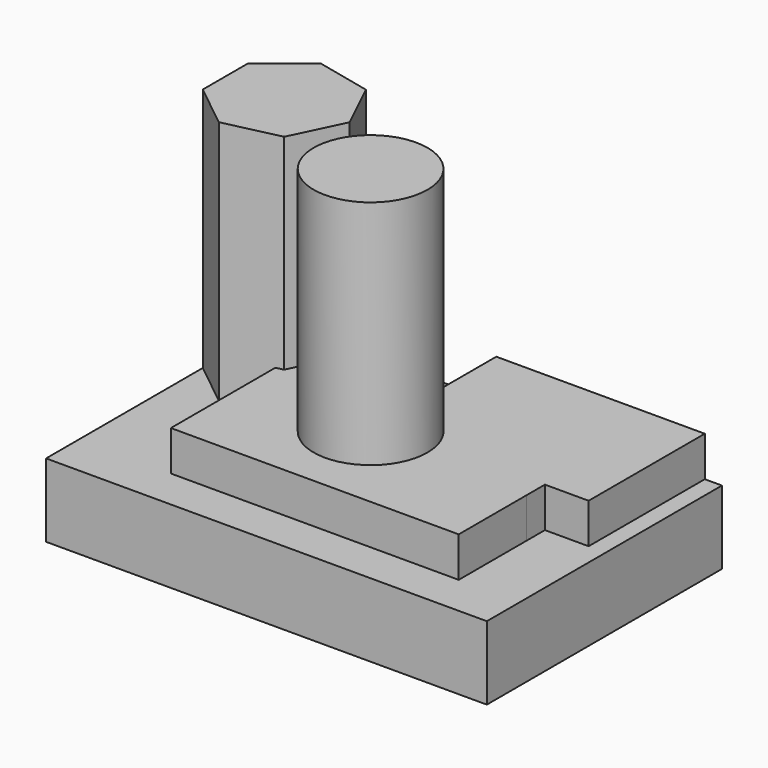
from build123d import *

# Parameters (mm, degrees)
F0_W     = 76.2
F0_H     = 50.8
F1_DEPTH = 12.7
F2_W     = 49.7612692416
F2_H     = 14.612480998
F2_W_2   = 28.4890644252
F2_H_2   = 11.0769122839
F3_DEPTH = 6.9243321195
F4_R     = 9.8381563478
F5_DEPTH = 39.9880222976
F7_DEPTH = 42.3764139414


with BuildPart() as f1:
    # F0 (on Top) → F1 (new body)
    with BuildSketch(Plane.XY):
        with Locations((-38.1, -188.4133778646)):
            Rectangle(F0_W, F0_H)
    extrude(amount=-F1_DEPTH)

    # F2 (on face) → F3 (join)
    with BuildSketch(Plane.XY):
        with Locations((-35.398973152, -199.4379386306)):
            Rectangle(F2_W, F2_H)
        Polygon((-60.2796077728, -177.0403236151), (-60.2796077728, -192.1316981316), (-10.5183385313, -192.1316981316), (-10.5183385313, -188.117235899), (-39.0074029565, -188.117235899), (-39.0074029565, -177.0403236151), align=None)
        with Locations((-24.7628707439, -182.578779757)):
            Rectangle(F2_W_2, F2_H_2)
        Polygon((-10.5183385313, -177.0403236151), (-10.5183385313, -188.117235899), (-2.9622917064, -188.117235899), (-2.9622917064, -163.0133778646), (-39.0074029565, -163.0133778646), (-39.0074029565, -177.0403236151), align=None)
    extrude(amount=F3_DEPTH)

    # F4 (on face) → F5 (join)
    with BuildSketch(Plane.XY.offset(6.9243321195)):
        with Locations((-38.5907627642, -190.6945705414)):
            Circle(F4_R)
    extrude(amount=F5_DEPTH)

    # F6 (on face) → F7 (join)
    with BuildSketch(Plane.XY):
        Polygon((-76.2, -170.1574557203), (-76.2, -179.9530751329), (-68.5414763529, -186.0605439396), (-58.9914535705, -183.8808135592), (-54.7412935927, -175.0552654266), (-58.9914535705, -166.229717294), (-68.5414763529, -164.0499869137), align=None)
    extrude(amount=F7_DEPTH)


solid = f1.part
